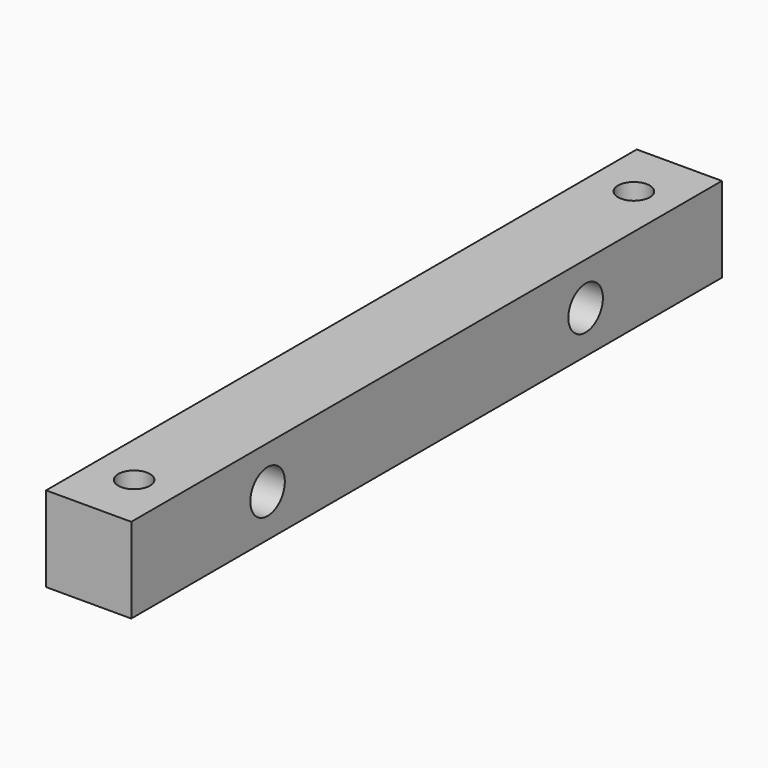
from build123d import *

# Parameters (mm, degrees)
F0_W     = 9.525
F0_H     = 9.525
F1_DEPTH = 41.275
F2_R     = 1.778
F3_DEPTH = 9.526
F4_R     = 1.778
F5_DEPTH = 9.526
F6_R     = 2.413
F7_DEPTH = 9.526
F8_R     = 2.413
F9_DEPTH = 9.526


with BuildPart() as f1:
    # F0 (on Front) → F1 (new body, symmetric)
    with BuildSketch(Plane.XZ):
        Rectangle(F0_W, F0_H)
    extrude(amount=F1_DEPTH, both=True)

    # F2 (on face) → F3 (cut, through all)
    with BuildSketch(Plane.XY.offset(4.7625)):
        with Locations((0, -34.925)):
            Circle(F2_R)
    extrude(amount=-F3_DEPTH, mode=Mode.SUBTRACT)

    # F4 (on face) → F5 (cut, through all)
    with BuildSketch(Plane.XY.offset(4.7625)):
        with Locations((0, 34.925)):
            Circle(F4_R)
    extrude(amount=-F5_DEPTH, mode=Mode.SUBTRACT)

    # F6 (on face) → F7 (cut, through all)
    with BuildSketch(Plane.YZ.offset(4.7625)):
        with Locations((-22.225, 0)):
            Circle(F6_R)
    extrude(amount=-F7_DEPTH, mode=Mode.SUBTRACT)

    # F8 (on face) → F9 (cut, through all)
    with BuildSketch(Plane.YZ.offset(4.7625)):
        with Locations((22.225, 0)):
            Circle(F8_R)
    extrude(amount=-F9_DEPTH, mode=Mode.SUBTRACT)


solid = f1.part
